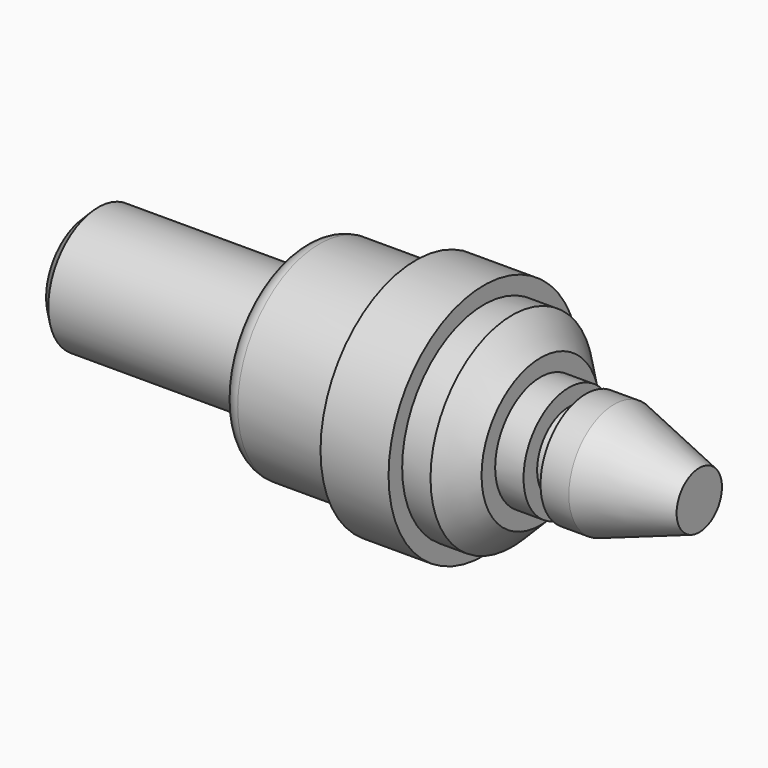
from build123d import *

# Parameters (mm, degrees)
F2_SIZE2 = 2
F2_SIZE  = 2
F3_SIZE  = 5
F4_R     = 3


with BuildPart() as f1:
    # F0 (on Top) → F1 (revolve)
    with BuildSketch(Plane.XY):
        Polygon((58.835075, 0), (-49.164925, 0), (-49.164925, -11), (-11.164925, -11), (-11.164925, -18), (8.835075, -18), (8.835075, -21), (20.835075, -21), (20.835075, -18), (30.835075, -18), (30.835075, -10), (35.835075, -10), (35.835075, -7), (38.835075, -7), (38.835075, -10), (43.835075, -10), (58.835075, -5), align=None)
    revolve(axis=Axis((4.835075, 0, 0), (1, 0, 0)))

    # F2
    f2_edges = [f1.edges().sort_by_distance(p)[0] for p in [
        (-49.164925, 11, 0),
    ]]
    chamfer(f2_edges, length=F2_SIZE, length2=F2_SIZE2)

    # F3
    f3_edges = [f1.edges().sort_by_distance(p)[0] for p in [
        (30.835075, 18, 0),
    ]]
    chamfer(f3_edges, length=F3_SIZE)

    # F4
    f4_edges = [f1.edges().sort_by_distance(p)[0] for p in [
        (-11.164925, 18, 0),
        (-11.164925, 11, 0),
    ]]
    fillet(f4_edges, radius=F4_R)


solid = f1.part
